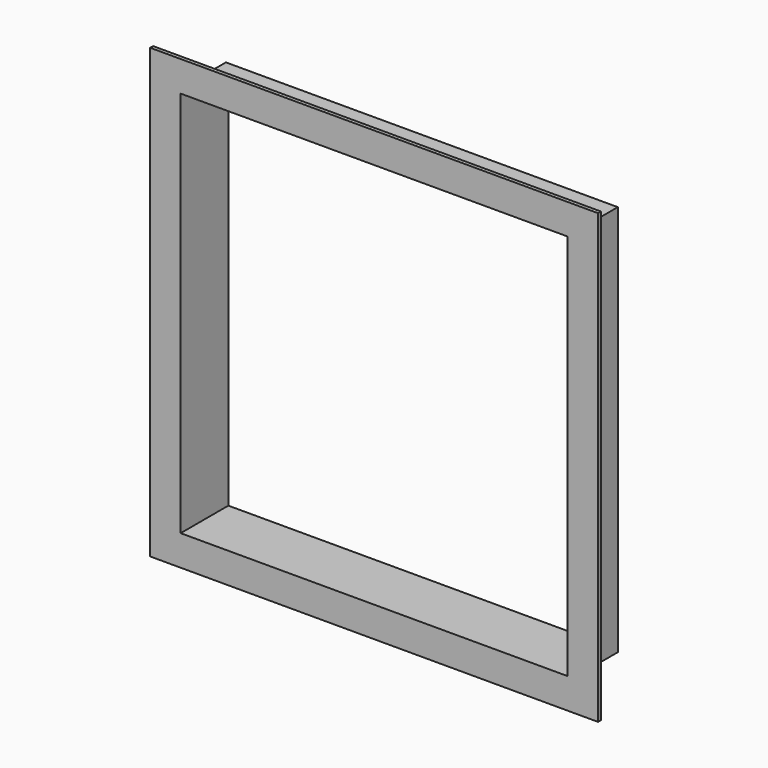
from build123d import *

# Parameters (mm, degrees)
F0_W     = 511.175
F0_H     = 511.175
F1_DEPTH = 73.025
F2_W     = 584.2
F2_H     = 584.2
F2_W_2   = 511.175
F2_H_2   = 511.175
F3_DEPTH = 4.7625
F4_W     = 504.825
F4_H     = 504.825
F5_DEPTH = 77.7885


with BuildPart() as f1:
    # F0 (on Front) → F1 (new body)
    with BuildSketch(Plane.XZ):
        Rectangle(F0_W, F0_H)
    extrude(amount=-F1_DEPTH)

    # F2 (on face) → F3 (join)
    with BuildSketch(Plane.XZ):
        Rectangle(F2_W, F2_H)
        Rectangle(F2_W_2, F2_H_2, mode=Mode.SUBTRACT)
        Rectangle(F2_W_2, F2_H_2)
    extrude(amount=F3_DEPTH)

    # F4 (on face) → F5 (cut, through all)
    with BuildSketch(Plane.XZ.offset(4.7625)):
        Rectangle(F4_W, F4_H)
    extrude(amount=-F5_DEPTH, mode=Mode.SUBTRACT)


solid = f1.part
